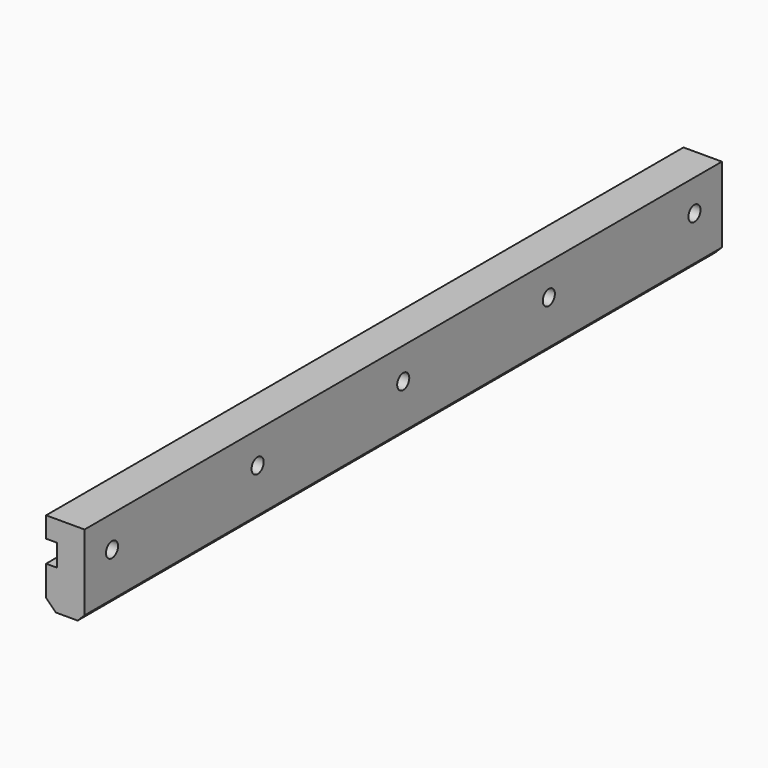
from build123d import *

# Parameters (mm, degrees)
F1_DEPTH = 580
F3_D     = 11
F4_SIZE  = 5


with BuildPart() as f1:
    # F0 (on Front) → F1 (new body)
    with BuildSketch(Plane.XZ):
        Polygon((28, 0), (0, 0), (0, -15), (8, -15), (8, -31), (0, -31), (0, -52.9289321881), (7.0710678119, -60), (28, -60), align=None)
    extrude(amount=F1_DEPTH)

    # F3 (through all)
    with Locations(Plane.YZ.offset(28)):
        with Locations((-555, -23), (-422.5, -23), (-290, -23), (-157.5, -23), (-25, -23)):
            Hole(F3_D / 2)

    # F4
    f4_edges = [f1.edges().sort_by_distance(p)[0] for p in [
        (28, -290, -60),
    ]]
    chamfer(f4_edges, length=F4_SIZE)


solid = f1.part
